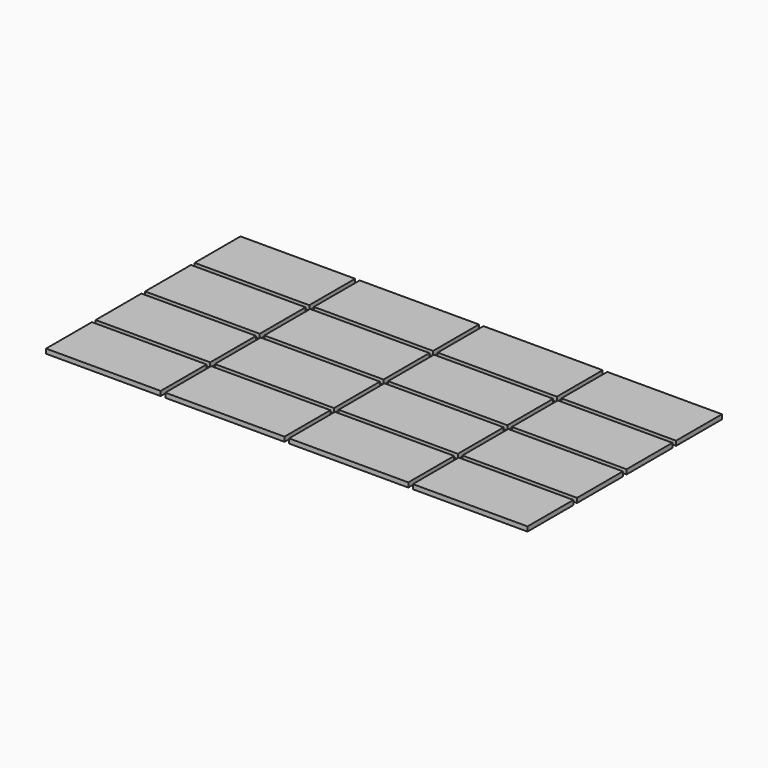
from build123d import *

# Parameters (mm, degrees)
F0_W     = 52
F0_H     = 25
F0_W_2   = 50
F1_DEPTH = 2


with BuildPart() as f1:
    # F0 (on Top) → F1 (new body)
    with BuildSketch(Plane.XY):
        Polygon((-55, 53), (-105, 53), (-105, 30), (-105, 28), (-55, 28), align=None)
        with Locations((-27, 40.5)):
            Rectangle(F0_W, F0_H)
        with Locations((27, 40.5)):
            Rectangle(F0_W, F0_H)
        with Locations((27, 13.5)):
            Rectangle(F0_W, F0_H)
        with Locations((-27, 13.5)):
            Rectangle(F0_W, F0_H)
        with Locations((-80, 13.5)):
            Rectangle(F0_W_2, F0_H)
        with Locations((-80, -13.5)):
            Rectangle(F0_W_2, F0_H)
        with Locations((-27, -13.5)):
            Rectangle(F0_W, F0_H)
        with Locations((27, -13.5)):
            Rectangle(F0_W, F0_H)
        Polygon((105, 53), (55, 53), (55, 28), (105, 28), (105, 30), align=None)
        with Locations((80, 13.5)):
            Rectangle(F0_W_2, F0_H)
        with Locations((80, -13.5)):
            Rectangle(F0_W_2, F0_H)
        Polygon((55, -28), (55, -53), (105, -53), (105, -30), (105, -28), align=None)
        with Locations((27, -40.5)):
            Rectangle(F0_W, F0_H)
        with Locations((-27, -40.5)):
            Rectangle(F0_W, F0_H)
        Polygon((-55, -28), (-105, -28), (-105, -30), (-105, -53), (-55, -53), align=None)
    extrude(amount=F1_DEPTH)


solid = f1.part
